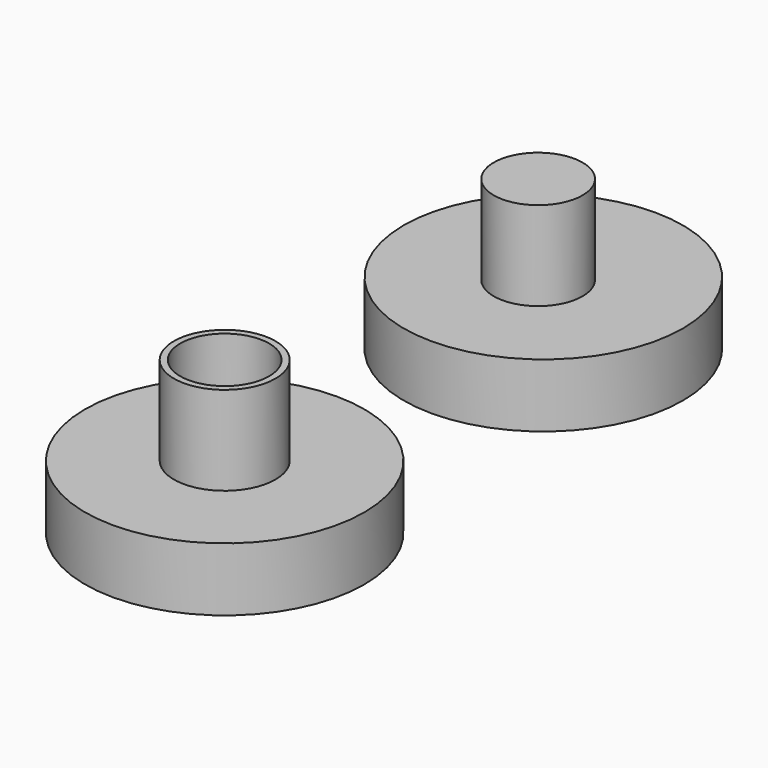
from build123d import *

# Parameters (mm, degrees)
F0_R     = 11
F1_DEPTH = 5
F2_R     = 4
F2_R_2   = 3.5
F3_DEPTH = 7
F4_R     = 11
F5_DEPTH = 5
F6_R     = 3.5
F7_DEPTH = 12


with BuildPart() as f1:
    # F0 (on Top) → F1 (new body)
    with BuildSketch(Plane.XY):
        Circle(F0_R)
    extrude(amount=F1_DEPTH)

    # F2 (on face) → F3 (join)
    with BuildSketch(Plane.XY.offset(5)):
        Circle(F2_R)
        Circle(F2_R_2, mode=Mode.SUBTRACT)
    extrude(amount=F3_DEPTH)


with BuildPart() as f5:
    # F4 (on Top) → F5 (new body)
    with BuildSketch(Plane.XY):
        with Locations((0, 31.372987)):
            Circle(F4_R)
    extrude(amount=F5_DEPTH)

    # F6 (on Top) → F7 (join)
    with BuildSketch(Plane.XY):
        with Locations((0, 30.864922)):
            Circle(F6_R)
    extrude(amount=F7_DEPTH)


solid = Compound([f1.part, f5.part])
